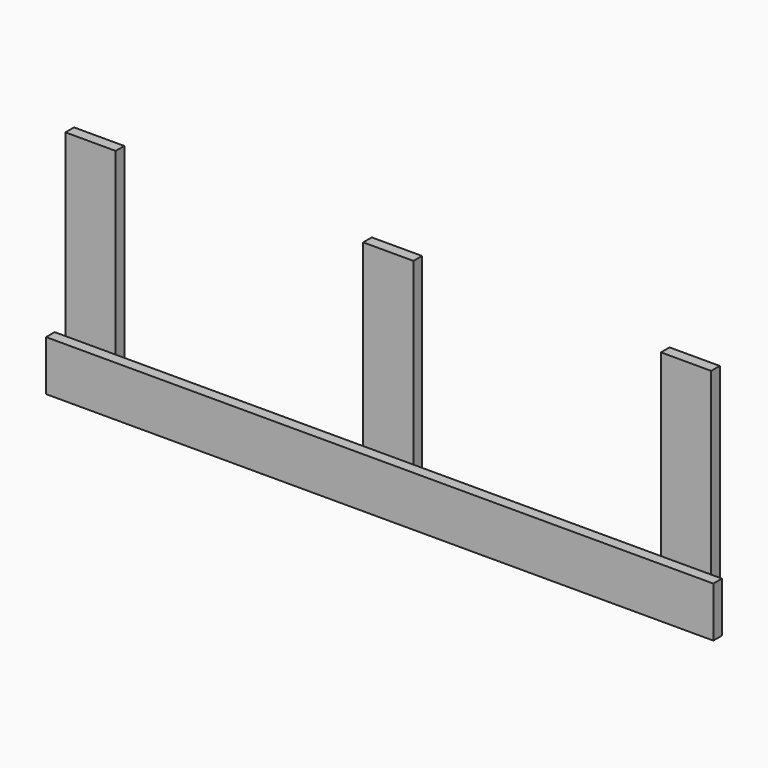
from build123d import *

# Parameters (mm, degrees)
F0_W     = 88.9
F0_H     = 88.9
F0_H_2   = 317.5
F1_DEPTH = 19.05
F0_W_2   = 438.15
F0_W_3   = 19.05
F2_DEPTH = 19.05


with BuildPart() as f1:
    # F0 (on Front) → F1 (new body)
    with BuildSketch(Plane.XZ):
        with Locations((-527.05, 0)):
            Rectangle(F0_W, F0_H)
        with Locations((-527.05, 203.2)):
            Rectangle(F0_W, F0_H_2)
    extrude(amount=-F1_DEPTH)



with BuildPart() as f1b:
    # F0 (on Front) → F1, piece 2 (new body)
    with BuildSketch(Plane.XZ):
        Rectangle(F0_W, F0_H)
        with Locations((0, 203.2)):
            Rectangle(F0_W, F0_H_2)
    extrude(amount=-F1_DEPTH)


with BuildPart() as f1c:
    # F0 (on Front) → F1, piece 3 (new body)
    with BuildSketch(Plane.XZ):
        with Locations((527.05, 0)):
            Rectangle(F0_W, F0_H)
        with Locations((527.05, 203.2)):
            Rectangle(F0_W, F0_H_2)
    extrude(amount=-F1_DEPTH)


with BuildPart() as f1_1:
    add(f1.part)

    add(f1b.part)  # F2 merges F1b

    add(f1c.part)  # F2 merges F1c
    # F0 (on Front) → F2 (join)
    with BuildSketch(Plane.XZ):
        with Locations((-263.525, 0)):
            Rectangle(F0_W_2, F0_H)
        with Locations((-527.05, 0)):
            Rectangle(F0_W, F0_H)
        with Locations((-581.025, 0)):
            Rectangle(F0_W_3, F0_H)
        Rectangle(F0_W, F0_H)
        with Locations((263.525, 0)):
            Rectangle(F0_W_2, F0_H)
        with Locations((527.05, 0)):
            Rectangle(F0_W, F0_H)
        with Locations((581.025, 0)):
            Rectangle(F0_W_3, F0_H)
    extrude(amount=F2_DEPTH)


solid = f1_1.part
